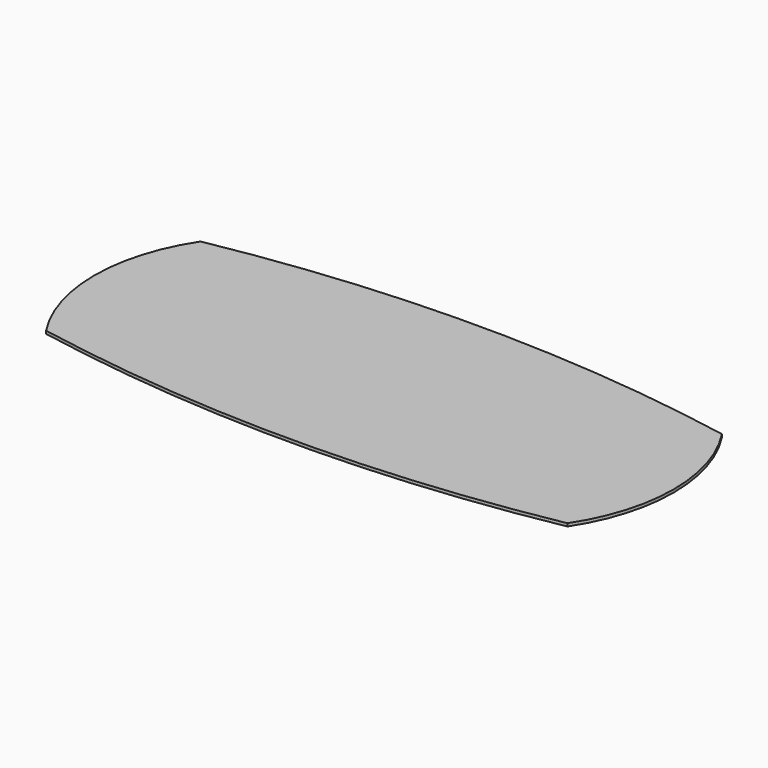
from build123d import *

# Parameters (mm, degrees)
F2_DEPTH = 15


with BuildPart() as f2:
    # F1 (on offset) → F2 (new body)
    with BuildSketch(Plane.XY.offset(1100)):
        with BuildLine():
            ThreePointArc((1350, -500), (1500, 0), (1350, 500))
            ThreePointArc((1350, 500), (0, 625), (-1350, 500))
            ThreePointArc((-1350, 500), (-1500, 0), (-1350, -500))
            ThreePointArc((-1350, -500), (0, -625), (1350, -500))
        make_face()
    extrude(amount=-F2_DEPTH)


solid = f2.part
